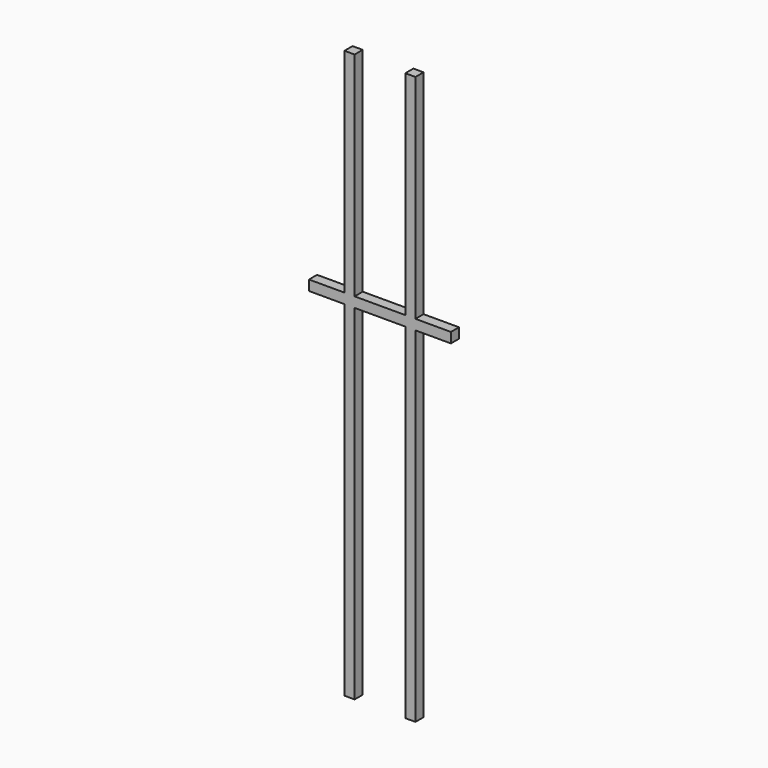
from build123d import *

# Parameters (mm, degrees)
F1_DEPTH = 25.4


with BuildPart() as f1:
    # F0 (on Front) → F1 (new body)
    with BuildSketch(Plane.XZ):
        Polygon((-63.5, 546.1), (-88.9, 546.1), (-88.9, 12.7), (-177.8, 12.7), (-177.8, -12.7), (-88.9, -12.7), (-88.9, -876.3), (-63.5, -876.3), (-63.5, -12.7), (63.5, -12.7), (63.5, -876.3), (88.9, -876.3), (88.9, -12.7), (177.8, -12.7), (177.8, 12.7), (88.9, 12.7), (88.9, 546.1), (63.5, 546.1), (63.5, 12.7), (-63.5, 12.7), align=None)
    extrude(amount=-F1_DEPTH)


solid = f1.part
